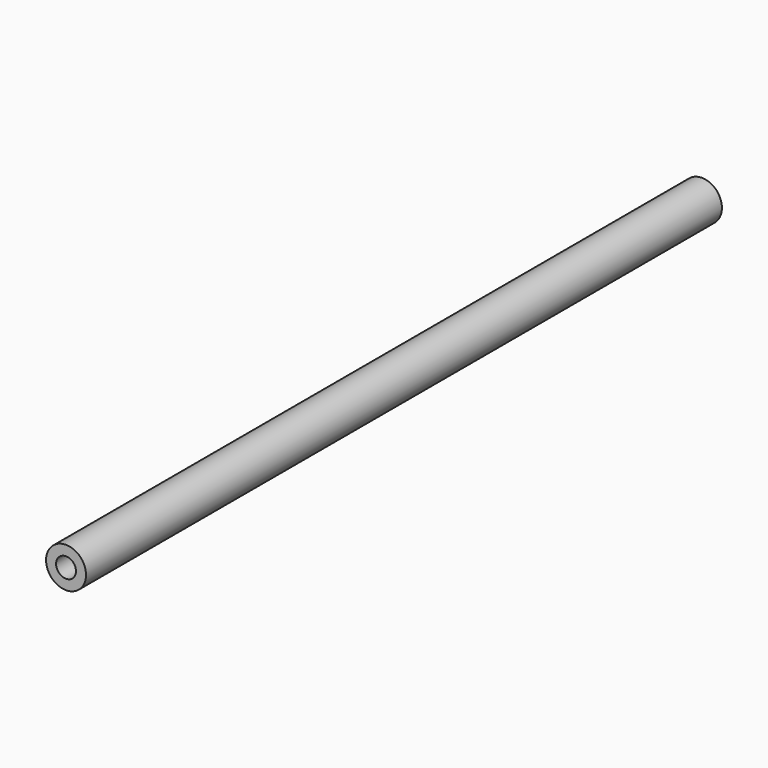
from build123d import *

# Parameters (mm, degrees)
F0_R     = 6.3881
F0_R_2   = 3.175
F1_DEPTH = 25.4
F2_DEPTH = 254


with BuildPart() as f1:
    # F0 (on Front) → F1 (new body)
    with BuildSketch(Plane.XZ):
        Circle(F0_R)
        Circle(F0_R_2, mode=Mode.SUBTRACT)
    extrude(amount=F1_DEPTH)

    # F0 (on Front) → F2 (join)
    with BuildSketch(Plane.XZ):
        Circle(F0_R)
        Circle(F0_R_2, mode=Mode.SUBTRACT)
    extrude(amount=F2_DEPTH)


solid = f1.part
